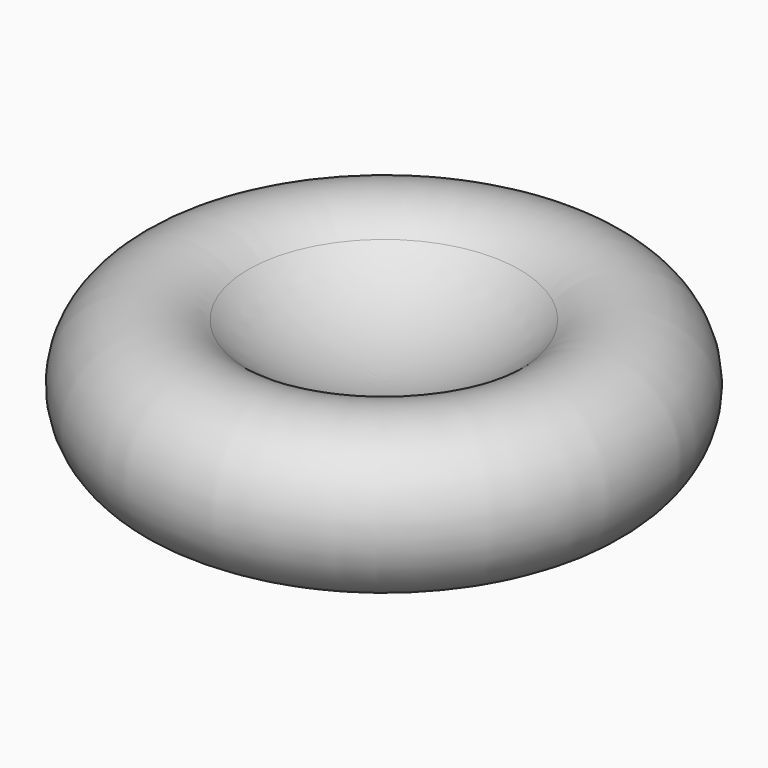
from build123d import *

# Parameters (mm, degrees)
F2_R     = 9.887529
F3_DEPTH = 38.9


with BuildPart() as f1:
    # F0 (on Front) → F1 (revolve)
    with BuildSketch(Plane.XZ):
        with BuildLine():
            ThreePointArc((0, 15.298191), (-13.834802, 17.886039), (-25.798799, 25.299641))
            ThreePointArc((-25.798799, 25.299641), (-49.173865, 19.810531), (-35.606739, 0))
            Line((-35.606739, 0), (0, 0))
            Line((0, 0), (0, 15.298191))
        make_face()
    revolve(axis=Axis((0, 0, 7.649096), (0, 0, 1)))

    # F2 (on Top) → F3 (cut)
    with BuildSketch(Plane.XY):
        with Locations((0, 53.11314)):
            Circle(F2_R)
    extrude(amount=F3_DEPTH, mode=Mode.SUBTRACT)


solid = f1.part
